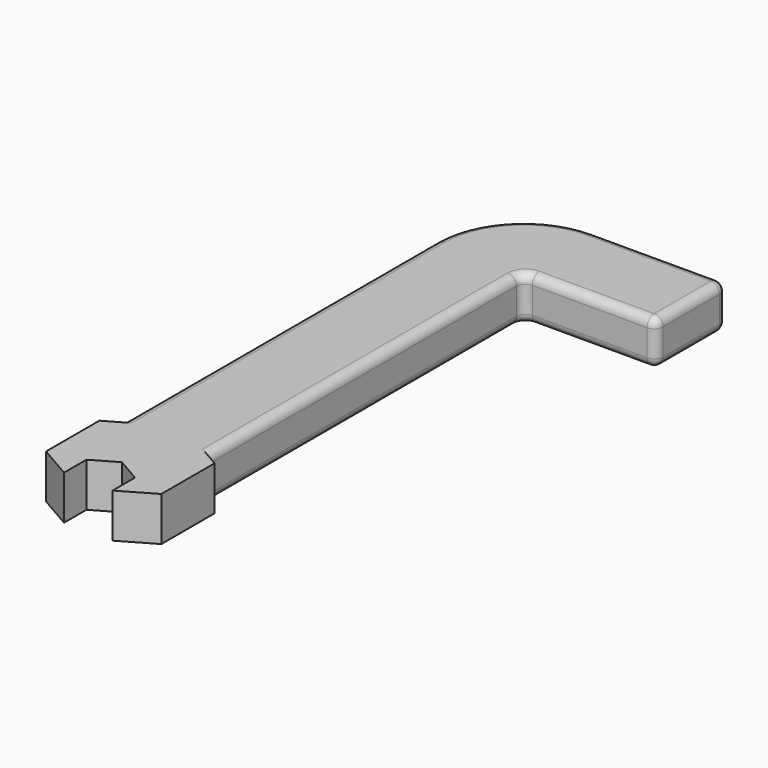
from build123d import *

# Parameters (mm, degrees)
F0_W     = 10
F0_H     = 5
F4_DEPTH = 5
F6_DEPTH = 5
F7_R     = 1
F8_R     = 1


with BuildPart() as f2:
    # F2: sweep along a path in F1
    with BuildLine(Plane.XY) as f2_path:
        Line((0, 0), (0, 45))
        ThreePointArc((0, 45), (1.4644660941, 48.5355339059), (5, 50))
        Line((5, 50), (20, 50))
    # F0 (on Front) → F2 (sweep)
    with BuildSketch(Plane.XZ):
        Rectangle(F0_W, F0_H)
    sweep(path=f2_path.line)

    # F3 (on face) → F4 (join, through all)
    with BuildSketch(Plane.XY.offset(2.5)):
        Polygon((0, -12.0238676125), (6.5331561742, -8.2519481366), (6.5331561742, -0.708109185), (0, 3.0638102908), (-6.5331561742, -0.708109185), (-6.5331561742, -8.2519481366), align=None)
    extrude(amount=-F4_DEPTH)

    # F5 (on face) → F6 (cut, through all)
    with BuildSketch(Plane.XY.offset(2.5)):
        Polygon((0, -12.0238676125), (2.75, -10.4361543722), (2.75, -7.2607278916), (0, -5.6730146514), (-2.75, -7.2607278916), (-2.75, -10.4361543722), align=None)
    extrude(amount=-F6_DEPTH, mode=Mode.SUBTRACT)

    # F7
    f7_edges = [f2.edges().sort_by_distance(p)[0] for p in [
        (20, 55, 0),
        (20, 45, 0),
        (5, 45, 0),
    ]]
    fillet(f7_edges, radius=F7_R)

    # F8
    f8_edges = [f2.edges().sort_by_distance(p)[0] for p in [
        (20, 50, 2.5),
        (20, 50, -2.5),
    ]]
    fillet(f8_edges, radius=F8_R)


solid = f2.part
